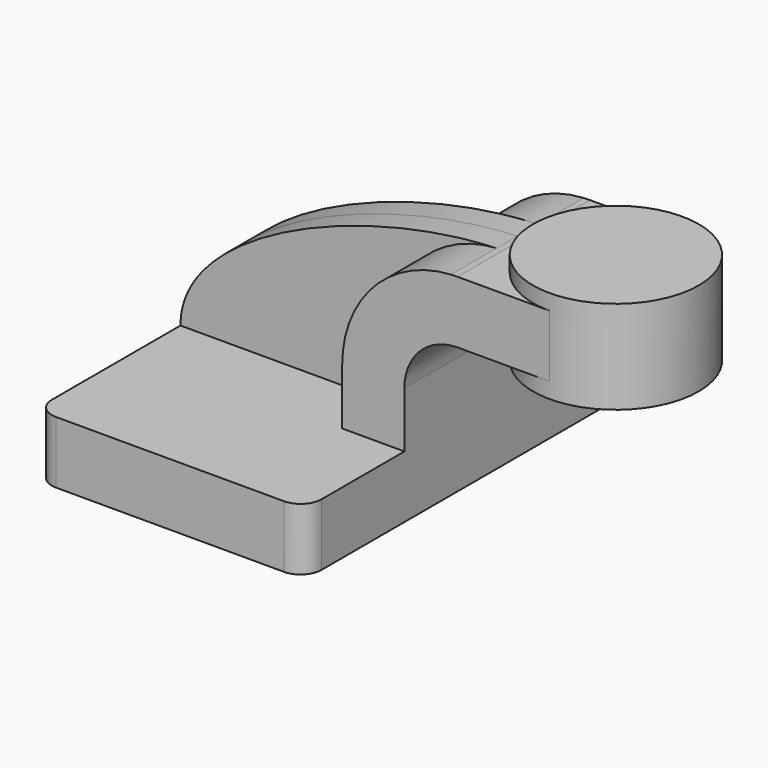
from build123d import *

# Parameters (mm, degrees)
F1_DEPTH = 63.5
F0_W     = 25.4
F0_H     = 19.05
F2_DEPTH = 25.4
F3_DEPTH = 7.9375
F5_R     = 6.35


with BuildPart() as f1:
    # F0 (on Front) → F1 (new body, symmetric)
    with BuildSketch(Plane.XZ):
        Polygon((22.225, 9.525), (-41.275, 9.525), (-41.275, -9.525), (41.275, -9.525), (41.275, 9.525), align=None)
    extrude(amount=F1_DEPTH, both=True)

    # F0 (on Front) → F2 (join, symmetric)
    with BuildSketch(Plane.XZ):
        with BuildLine():
            Line((22.225, 26.6065), (22.225, 9.525))
            Line((22.225, 9.525), (41.275, 9.525))
            Line((41.275, 9.525), (41.275, 26.6065))
            ThreePointArc((41.275, 26.6065), (46.036272165, 38.101227835), (57.531, 42.8625))
            Line((57.531, 42.8625), (60.325, 42.8625))
            Line((60.325, 42.8625), (60.325, 61.9125))
            Line((60.325, 61.9125), (57.531, 61.9125))
            add(Edge.make_bspline(
                [(55.5290103021, 61.8556939376), (56.2002477906, 61.8803432694), (56.8676783397, 61.8993025972), (57.531, 61.9125)],
                knots=[110.0446061919, 110.0446061919, 110.0446061919, 110.0446061919, 111.8350383031, 111.8350383031, 111.8350383031, 111.8350383031], degree=3))
            ThreePointArc((55.5290103021, 61.8556939376), (31.8678368641, 50.8534728804), (22.225, 26.6065))
        make_face()
        with Locations((73.025, 52.3875)):
            Rectangle(F0_W, F0_H)
    extrude(amount=F2_DEPTH, both=True)

    # F0 (on Front) → F3 (join, symmetric)
    with BuildSketch(Plane.XZ):
        with BuildLine():
            add(Edge.make_bspline(
                [(-41.275, 9.525), (-41.3642752685, 37.3308218057), (14.273011468, 60.340682003), (55.5290103021, 61.8556939376)],
                knots=[0, 0, 0, 0, 110.0446061919, 110.0446061919, 110.0446061919, 110.0446061919], degree=3))
            Line((-41.275, 9.525), (22.225, 9.525))
            Line((22.225, 9.525), (22.225, 26.6065))
            ThreePointArc((22.225, 26.6065), (31.8678368641, 50.8534728804), (55.5290103021, 61.8556939376))
        make_face()
    extrude(amount=F3_DEPTH, both=True)

    # F5
    f5_edges = [f1.edges().sort_by_distance(p)[0] for p in [
        (-41.275, -63.5, 0),
        (41.275, -63.5, 0),
        (41.275, 63.5, 0),
        (-41.275, 63.5, 0),
    ]]
    fillet(f5_edges, radius=F5_R)


with BuildPart() as f4:
    # F0 (on Front) → F4 (revolve)
    with BuildSketch(Plane.XZ):
        Polygon((85.725, 66.675), (85.725, 61.9125), (85.725, 42.8625), (85.725, 38.1), (111.125, 38.1), (111.125, 66.675), align=None)
    revolve(axis=Axis((85.725, 0, 52.3875), (0, 0, 1)))


solid = Compound([f1.part, f4.part])
